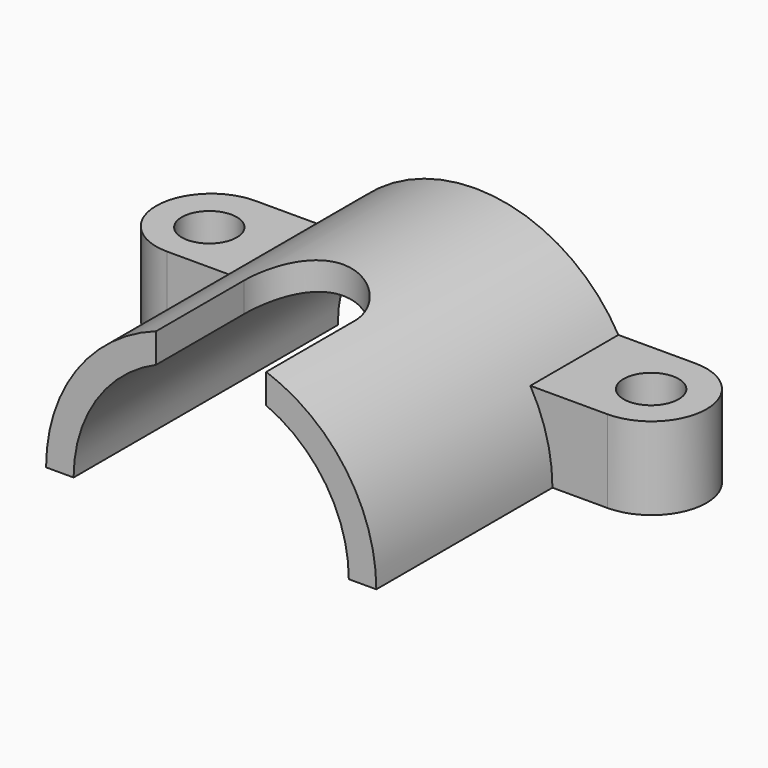
from build123d import *

# Parameters (mm, degrees)
F2_DEPTH  = 60
F4_DEPTH  = 15
F6_DEPTH  = 60.001
F9_DEPTH  = 30.001
F10_R     = 5
F11_DEPTH = 15


with BuildPart() as f2:
    # F1 (on Front) → F2 (new body)
    with BuildSketch(Plane.XZ):
        with BuildLine():
            ThreePointArc((30, 0), (0, 30), (-30, 0))
            Line((-30, 0), (30, 0))
        make_face()
    extrude(amount=F2_DEPTH)

    # F3 (on Top) → F4 (join)
    with BuildSketch(Plane.XY):
        with BuildLine():
            Line((40, 0), (-40, 0))
            ThreePointArc((-40, 0), (-50, -10), (-40, -20))
            Line((-40, -20), (40, -20))
            ThreePointArc((40, -20), (50, -10), (40, 0))
        make_face()
    extrude(amount=F4_DEPTH)

    # F5 (on Front) → F6 (cut, through all)
    with BuildSketch(Plane.XZ):
        with BuildLine():
            ThreePointArc((25, 0), (0, 25), (-25, 0))
            Line((-25, 0), (25, 0))
        make_face()
    extrude(amount=F6_DEPTH, mode=Mode.SUBTRACT)

    # F8 (on offset) → F9 (cut, through all)
    with BuildSketch(Plane.XY.offset(30)):
        with BuildLine():
            Line((-10, -60), (0, -60))
            Line((0, -60), (10, -60))
            Line((10, -60), (10, -40))
            ThreePointArc((10, -40), (0, -30), (-10, -40))
            Line((-10, -40), (-10, -60))
        make_face()
    extrude(amount=-F9_DEPTH, mode=Mode.SUBTRACT)

    # F10 (on Top) → F11 (cut, through all)
    with BuildSketch(Plane.XY):
        with Locations((-40, -10.4273502391)):
            Circle(F10_R)
        with Locations((40, -10.0854694971)):
            Circle(F10_R)
    extrude(amount=F11_DEPTH, mode=Mode.SUBTRACT)


solid = f2.part
